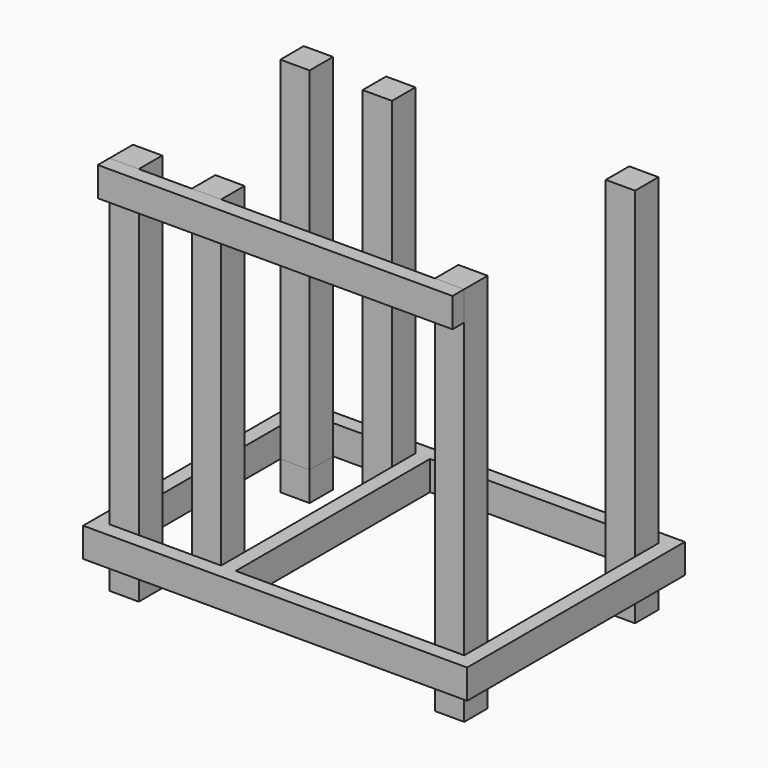
from build123d import *

# Parameters (mm, degrees)
F0_W     = 101.6
F0_H     = 101.6
F1_DEPTH = 1219.2
F2_DEPTH = 101.6
F3_DEPTH = 101.6
F4_W     = 1229.9696
F4_H     = 50.8
F5_DEPTH = 101.6


with BuildPart() as f1:
    # F0 (on Top) → F1 (new body)
    with BuildSketch(Plane.XY):
        with Locations((50.8, -791.189994)):
            Rectangle(F0_W, F0_H)
        with Locations((50.8, -50.8)):
            Rectangle(F0_W, F0_H)
        with Locations((336.238925, -791.189994)):
            Rectangle(F0_W, F0_H)
        with Locations((336.238925, -50.8)):
            Rectangle(F0_W, F0_H)
        with Locations((1179.1696, -50.8)):
            Rectangle(F0_W, F0_H)
        with Locations((1179.1696, -791.189994)):
            Rectangle(F0_W, F0_H)
    extrude(amount=F1_DEPTH)


with BuildPart() as f2:
    # F0 (on Top) → F2 (new body)
    with BuildSketch(Plane.XY):
        Polygon((0, -101.6), (0, 0), (0, 50.8), (-50.8, 50.8), (-50.8, -892.789994), (0, -892.789994), (0, -841.989994), (0, -740.389994), align=None)
        Polygon((101.6, -841.989994), (0, -841.989994), (0, -892.789994), (1229.9696, -892.789994), (1229.9696, -841.989994), (1128.3696, -841.989994), (437.838925, -841.989994), (387.038925, -841.989994), (285.438925, -841.989994), align=None)
        Polygon((1280.7696, 50.8), (1229.9696, 50.8), (1229.9696, 0), (1229.9696, -101.6), (1229.9696, -740.389994), (1229.9696, -841.989994), (1229.9696, -892.789994), (1280.7696, -892.789994), align=None)
        Polygon((0, 50.8), (0, 0), (101.6, 0), (285.438925, 0), (387.038925, 0), (437.838925, 0), (1128.3696, 0), (1229.9696, 0), (1229.9696, 50.8), align=None)
        Polygon((437.838925, 0), (387.038925, 0), (387.038925, -101.6), (387.038925, -740.389994), (387.038925, -841.989994), (437.838925, -841.989994), align=None)
    extrude(amount=F2_DEPTH)


with BuildPart() as f3:
    # F0 (on Top) → F3 (new body)
    with BuildSketch(Plane.XY):
        with Locations((50.8, -791.189994)):
            Rectangle(F0_W, F0_H)
        with Locations((50.8, -50.8)):
            Rectangle(F0_W, F0_H)
        with Locations((1179.1696, -50.8)):
            Rectangle(F0_W, F0_H)
        with Locations((1179.1696, -791.189994)):
            Rectangle(F0_W, F0_H)
    extrude(amount=-F3_DEPTH)


with BuildPart() as f5:
    # F4 (on face) → F5 (new body)
    with BuildSketch(Plane.XY.offset(1219.2)):
        with Locations((614.9848, -867.389994)):
            Rectangle(F4_W, F4_H)
    extrude(amount=-F5_DEPTH)


solid = Compound([f1.part, f2.part, f3.part, f5.part])
